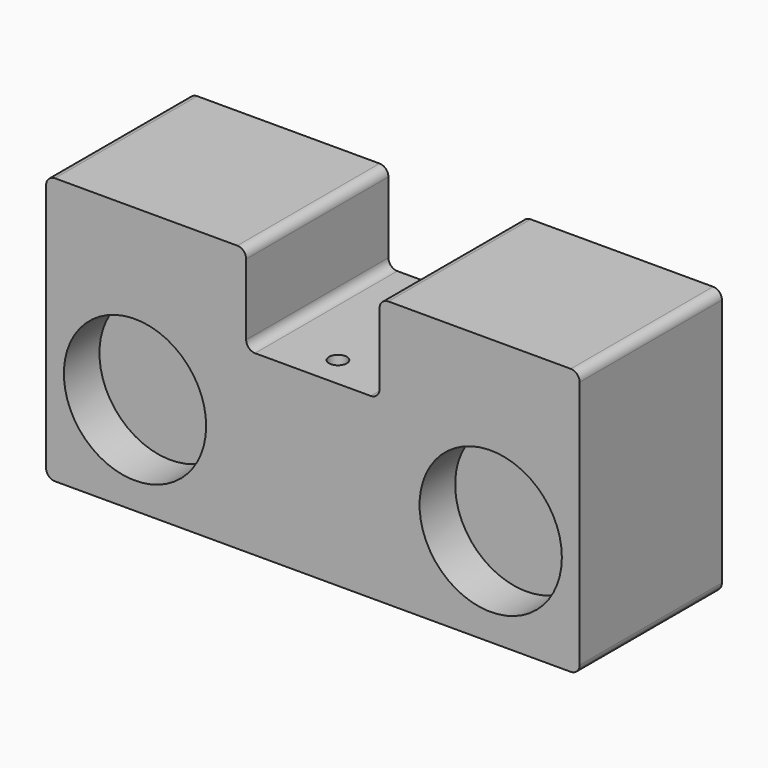
from build123d import *

# Parameters (mm, degrees)
F1_DEPTH = 100
F2_R     = 40
F3_DEPTH = 25
F4_R     = 5
F5_DEPTH = 50


with BuildPart() as f1:
    # F0 (on Front) → F1 (new body)
    with BuildSketch(Plane.XZ):
        with BuildLine():
            Line((-58.053203, 88.663405), (-160.553203, 88.663405))
            ThreePointArc((-160.553203, 88.663405), (-164.088737, 87.198939), (-165.553203, 83.663405))
            Line((-165.553203, 83.663405), (-165.553203, -56.336595))
            ThreePointArc((-165.553203, -56.336595), (-164.088737, -59.872129), (-160.553203, -61.336595))
            Line((-160.553203, -61.336595), (129.446797, -61.336595))
            ThreePointArc((129.446797, -61.336595), (132.98233, -59.872129), (134.446797, -56.336595))
            Line((134.446797, -56.336595), (134.446797, 83.663405))
            ThreePointArc((134.446797, 83.663405), (132.98233, 87.198939), (129.446797, 88.663405))
            Line((129.446797, 88.663405), (26.946797, 88.663405))
            ThreePointArc((26.946797, 88.663405), (23.411263, 87.198939), (21.946797, 83.663405))
            Line((21.946797, 83.663405), (21.946797, 43.663405))
            ThreePointArc((21.946797, 43.663405), (20.48233, 40.127871), (16.946797, 38.663405))
            Line((16.946797, 38.663405), (-48.053203, 38.663405))
            ThreePointArc((-48.053203, 38.663405), (-51.588737, 40.127871), (-53.053203, 43.663405))
            Line((-53.053203, 43.663405), (-53.053203, 83.663405))
            ThreePointArc((-53.053203, 83.663405), (-54.51767, 87.198939), (-58.053203, 88.663405))
        make_face()
    extrude(amount=F1_DEPTH)

    # F2 (on face) → F3 (cut)
    with BuildSketch(Plane.XZ.offset(100)):
        with Locations((-115.553203, -6.336595)):
            Circle(F2_R)
        with Locations((84.446797, -6.336595)):
            Circle(F2_R)
    extrude(amount=-F3_DEPTH, mode=Mode.SUBTRACT)

    # F4 (on face) → F5 (cut)
    with BuildSketch(Plane.XY.offset(38.663405)):
        with Locations((-15.553203, -82.352199)):
            Circle(F4_R)
    extrude(amount=-F5_DEPTH, mode=Mode.SUBTRACT)


solid = f1.part
